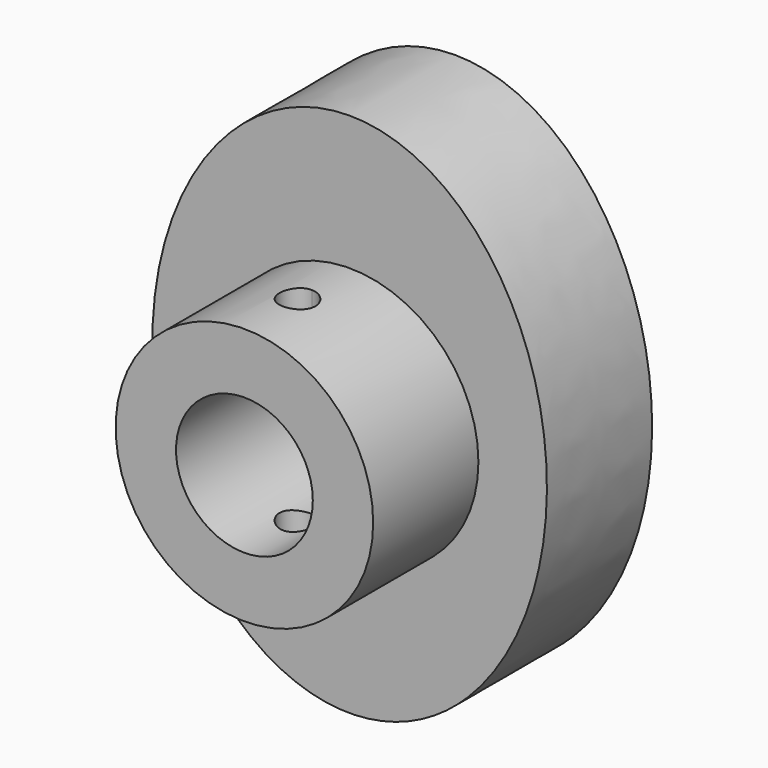
from build123d import *

# Parameters (mm, degrees)
F1_DEPTH = 12.7
F2_R     = 6.604
F3_DEPTH = 12.7
F4_R     = 12.4350894419
F4_R_2   = 6.604
F5_DEPTH = 12.7
F7_DEPTH = 12.7


with BuildPart() as f1:
    # F0 (on Front) → F1 (new body)
    with BuildSketch(Plane.XZ):
        with BuildLine():
            add(Edge.make_bspline(
                [(0, 25.4), (-32.9955678842, 25.4), (-16.4977839421, -12.7), (0, -50.8), (16.4977839421, -12.7), (32.9955678842, 25.4), (0, 25.4)],
                knots=[0, 0, 0, 2.0943951024, 2.0943951024, 4.1887902048, 4.1887902048, 6.2831853072, 6.2831853072, 6.2831853072], degree=2, weights=[1, 0.5, 1, 0.5, 1, 0.5, 1]))
        make_face()
    extrude(amount=F1_DEPTH)

    # F2 (on face) → F3 (cut, symmetric)
    with BuildSketch(Plane.XZ.offset(12.7)):
        Circle(F2_R)
    extrude(amount=F3_DEPTH, both=True, mode=Mode.SUBTRACT)

    # F4 (on face) → F5 (join)
    with BuildSketch(Plane.XZ.offset(12.7)):
        Circle(F4_R)
        Circle(F4_R_2, mode=Mode.SUBTRACT)
    extrude(amount=F5_DEPTH)

    # F6 (on Top) → F7 (cut, symmetric)
    with BuildSketch(Plane.XY):
        with BuildLine():
            ThreePointArc((0, -20.7228794493), (1.2213148325, -20.2169942818), (1.7272, -18.9956794493))
            ThreePointArc((1.7272, -18.9956794493), (1.2213148325, -17.7743646168), (0, -17.2684794493))
            Line((0, -17.2684794493), (0, -20.7228794493))
        make_face()
        with BuildLine():
            Line((0, -20.7228794493), (0, -17.2684794493))
            ThreePointArc((0, -17.2684794493), (-1.7272, -18.9956794493), (0, -20.7228794493))
        make_face()
    extrude(amount=F7_DEPTH, both=True, mode=Mode.SUBTRACT)


solid = f1.part
